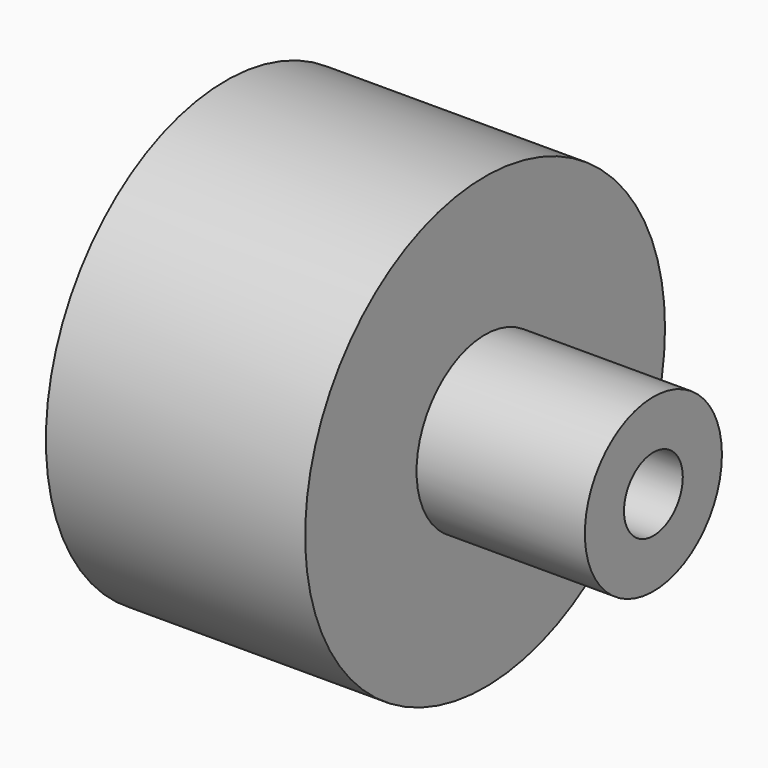
from build123d import *

# Parameters (mm, degrees)
F0_R     = 19.1321000997
F0_R_2   = 8.2100576967
F1_DEPTH = 37.592
F0_R_3   = 50.230050037
F0_R_4   = 27.2680196018
F2_DEPTH = 57.912
F3_DEPTH = 57.913


with BuildPart() as f1:
    # F0 (on Right) → F1 (new body)
    with BuildSketch(Plane.YZ):
        Circle(F0_R)
        Circle(F0_R_2, mode=Mode.SUBTRACT)
    extrude(amount=F1_DEPTH)

    # F0 (on Right) → F3 (cut, through all)
    with BuildSketch(Plane.YZ):
        Circle(F0_R_2)
    extrude(amount=-F3_DEPTH, mode=Mode.SUBTRACT)


with BuildPart() as f2:
    # F0 (on Right) → F2 (new body)
    with BuildSketch(Plane.YZ):
        Circle(F0_R_3)
        Circle(F0_R_4, mode=Mode.SUBTRACT)
        Circle(F0_R_4)
        Circle(F0_R, mode=Mode.SUBTRACT)
    extrude(amount=-F2_DEPTH)


solid = Compound([f1.part, f2.part])
